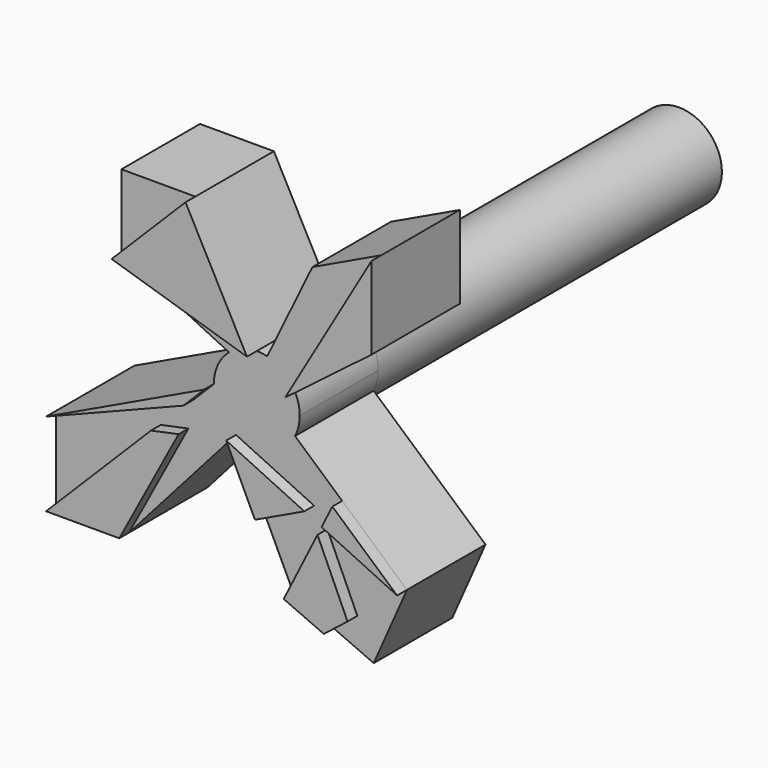
from build123d import *

# Parameters (mm, degrees)
F0_R     = 8.89
F1_DEPTH = 88.9
F4_DEPTH = 20.32
F6_DEPTH = 2.54


with BuildPart() as f1:
    # F0 (on Front) → F1 (new body)
    with BuildSketch(Plane.XZ):
        Circle(F0_R)
    extrude(amount=F1_DEPTH)

    # F2 (on face) → F4 (join)
    with BuildSketch(Plane.XZ.offset(88.9)):
        with BuildLine():
            ThreePointArc((-4.2918766229, -7.7853641568), (-7.6546353008, -4.5209134488), (-8.89, 0))
            Line((-8.89, 0), (-41.5729338972, -15.5504000302))
            Line((-41.5729338972, -15.5504000302), (-41.5729338972, -32.7917784452))
            Line((-41.5729338972, -32.7917784452), (-26.423625648, -32.7917784452))
            Line((-26.423625648, -32.7917784452), (-4.2918766229, -7.7853641568))
        make_face()
        with BuildLine():
            ThreePointArc((7.9221754919, -4.0337619507), (2.6102485031, -8.498158786), (-4.2918766229, -7.7853641568))
            Line((-4.2918766229, -7.7853641568), (7.6060682412, -32.7917784452))
            Line((7.6060682412, -32.7917784452), (24.2062564939, -40.108717978))
            Line((24.2062564939, -40.108717978), (31.0751149996, -24.5251063101))
            Line((31.0751149996, -24.5251063101), (7.9221754919, -4.0337619507))
        make_face()
        with BuildLine():
            Line((11.5068648519, 27.9272308745), (2.152897354, 8.6253772661))
            ThreePointArc((2.152897354, 8.6253772661), (5.536018968, 6.9559035348), (7.9221754919, 4.0337619507))
            Line((7.9221754919, 4.0337619507), (25.771754428, 17.6318820209))
            Line((25.771754428, 17.6318820209), (25.771754428, 34.7144042658))
            Line((25.771754428, 34.7144042658), (11.5068648519, 27.9272308745))
        make_face()
        with BuildLine():
            Line((-28.0105117708, 17.5770223141), (-5.7431249942, 6.7859130042))
            ThreePointArc((-5.7431249942, 6.7859130042), (-3.0582129907, 8.3474207576), (0, 8.89))
            Line((0, 8.89), (-12.7163026482, 32.8911244869))
            Line((-12.7163026482, 32.8911244869), (-28.0105117708, 32.8911244869))
            Line((-28.0105117708, 32.8911244869), (-28.0105117708, 17.5770223141))
        make_face()
        with BuildLine():
            ThreePointArc((-5.7431249942, 6.7859130042), (-8.0650009671, 3.7400346791), (-8.89, 0))
            ThreePointArc((-8.89, 0), (-7.6546353008, -4.5209134488), (-4.2918766229, -7.7853641568))
            ThreePointArc((-4.2918766229, -7.7853641568), (2.6102485031, -8.498158786), (7.9221754919, -4.0337619507))
            ThreePointArc((7.9221754919, -4.0337619507), (8.6446584699, -2.0741214859), (8.89, 0))
            ThreePointArc((8.89, 0), (8.6446584699, 2.0741214859), (7.9221754919, 4.0337619507))
            ThreePointArc((7.9221754919, 4.0337619507), (5.536018968, 6.9559035348), (2.152897354, 8.6253772661))
            ThreePointArc((2.152897354, 8.6253772661), (1.0845497001, 8.823596316), (0, 8.89))
            ThreePointArc((0, 8.89), (-3.0582129907, 8.3474207576), (-5.7431249942, 6.7859130042))
        make_face()
    extrude(amount=F4_DEPTH)

    # F5 (on face) → F6 (join)
    with BuildSketch(Plane.XZ.offset(109.22)):
        Polygon((7.6060682412, -32.7917784452), (15.9061623676, -36.4502482116), (20.813416993, -32.5923874103), (14.5969645539, -18.8207629411), align=None)
        Polygon((-4.2918766229, -7.7853641568), (1.6570958091, -20.288571301), (11.8639794051, -15.4321797825), align=None)
        Polygon((15.4445417704, -17.1269151278), (31.0751149996, -24.5251063101), (17.6763897155, -12.6666598402), align=None)
        Polygon((-26.423625648, -32.7917784452), (-14.1507707051, -9.8388109155), (-19.8614782116, -11.028258101), (-33.5180773118, -24.7176060956), align=None)
        Polygon((-19.7689795686, 25.8292742085), (0, 8.89), (-12.7163026482, 32.8911244869), align=None)
        Polygon((25.771754428, 34.7144042658), (7.9221754919, 4.0337619507), (25.771754428, 17.6318820209), align=None)
        Polygon((-41.5729338972, -32.7917784452), (-26.423625648, -32.7917784452), (-33.5180773118, -24.7176060956), align=None)
        Polygon((-28.0105117708, 17.5770223141), (0, 8.89), (-19.7689795686, 25.8292742085), align=None)
        Polygon((-41.5729338972, -15.5504000302), (-13.1555447136, -4.306243593), (-8.9251107789, -0.0656649632), (-8.89, 0), align=None)
    extrude(amount=F6_DEPTH)


solid = f1.part
